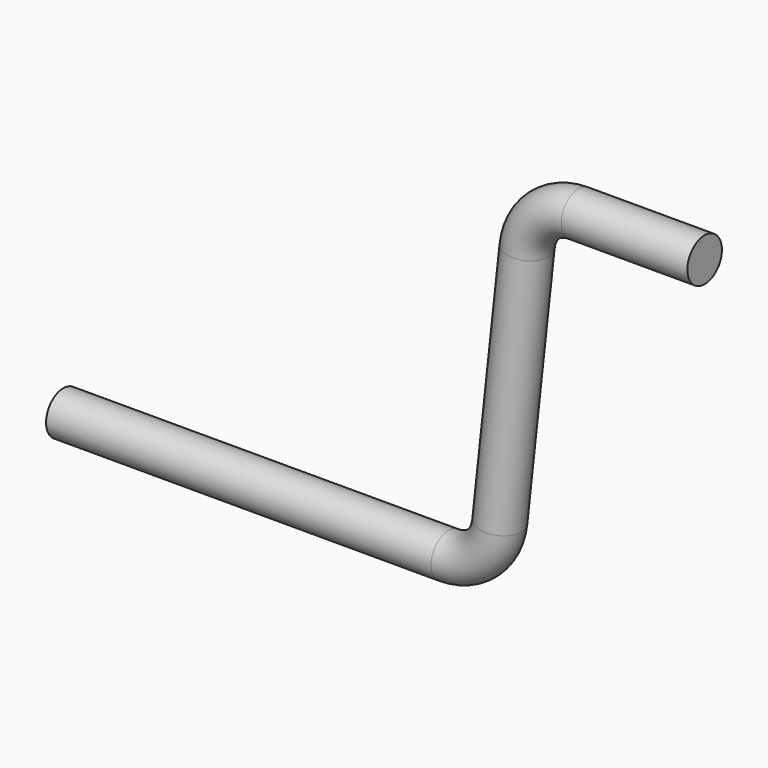
from build123d import *

# Parameters (mm, degrees)
F0_R = 3.175


with BuildPart() as f2:
    # F2: sweep along a path in F1
    with BuildLine(Plane.XZ) as f2_path:
        Line((0, 0), (56.6627732287, 0))
        ThreePointArc((56.6627732287, 0), (61.7517363875, 1.9484169786), (64.2382265221, 6.7972561761))
        Line((64.2382265221, 6.7972561761), (68.2467323037, 43.7057657798))
        ThreePointArc((68.2467323037, 43.7057657798), (70.7332224383, 48.5546049773), (75.822185597, 50.5030219559))
        Line((75.822185597, 50.5030219559), (94.3849588258, 50.5030219559))
    # F0 (on Right) → F2 (sweep)
    with BuildSketch(Plane.YZ):
        Circle(F0_R)
    sweep(path=f2_path.line)


solid = f2.part
